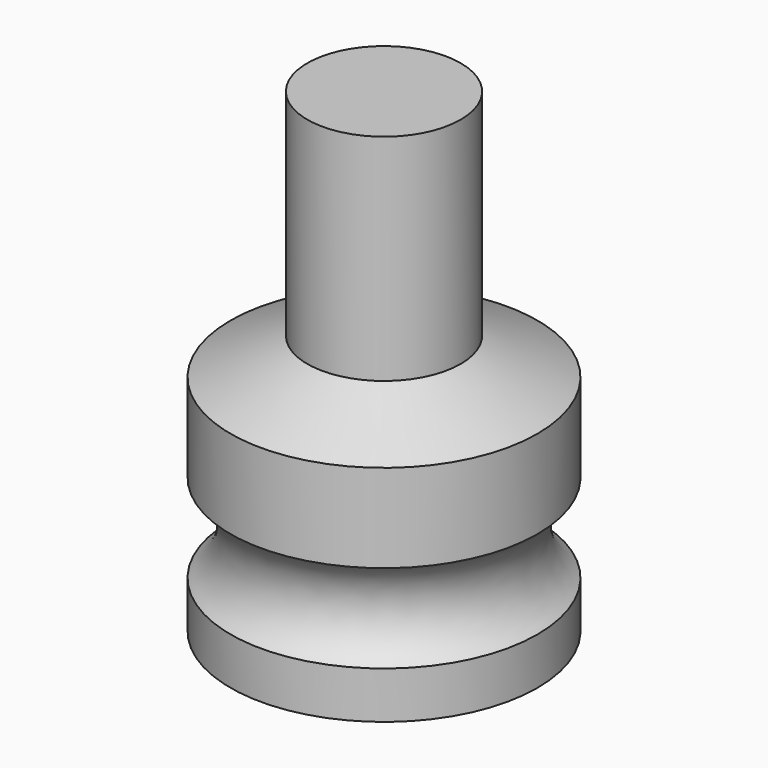
from build123d import *


with BuildPart() as f1:
    # F0 (on Front) → F1 (revolve)
    with BuildSketch(Plane.XZ):
        with BuildLine():
            Line((19.3420052528, -12.9610225558), (0, -12.9610225558))
            Line((0, -12.9610225558), (0, -93.1498259306))
            Line((0, -93.1498259306), (11.5896128118, -103.0825823545))
            Line((11.5896128118, -103.0825823545), (11.5896128118, -132.8808367252))
            Line((11.5896128118, -132.8808367252), (38.7229844928, -132.8808367252))
            Line((38.7229844928, -132.8808367252), (38.7229844928, -121.0099805308))
            ThreePointArc((38.7229844928, -121.0099805308), (32.9000426318, -109.8659187555), (38.7229844928, -98.7218569802))
            Line((38.7229844928, -98.7218569802), (38.7229844928, -76.4337331057))
            Line((38.7229844928, -76.4337331057), (19.3420052528, -67.2277659178))
            Line((19.3420052528, -67.2277659178), (19.3420052528, -12.9610225558))
        make_face()
        with BuildLine():
            Line((38.7229844928, -121.0099805308), (38.7229844928, -98.7218569802))
            ThreePointArc((38.7229844928, -98.7218569802), (32.9000426318, -109.8659187555), (38.7229844928, -121.0099805308))
        make_face()
    revolve(axis=Axis((0, 0, -53.0554242432), (0, 0, -1)))

    # F0 (on Front) → F2 (revolve, cut)
    with BuildSketch(Plane.XZ):
        with BuildLine():
            Line((38.7229844928, -121.0099805308), (38.7229844928, -98.7218569802))
            ThreePointArc((38.7229844928, -98.7218569802), (32.9000426318, -109.8659187555), (38.7229844928, -121.0099805308))
        make_face()
    revolve(axis=Axis((0, 0, -53.0554242432), (0, 0, -1)), mode=Mode.SUBTRACT)


solid = f1.part
